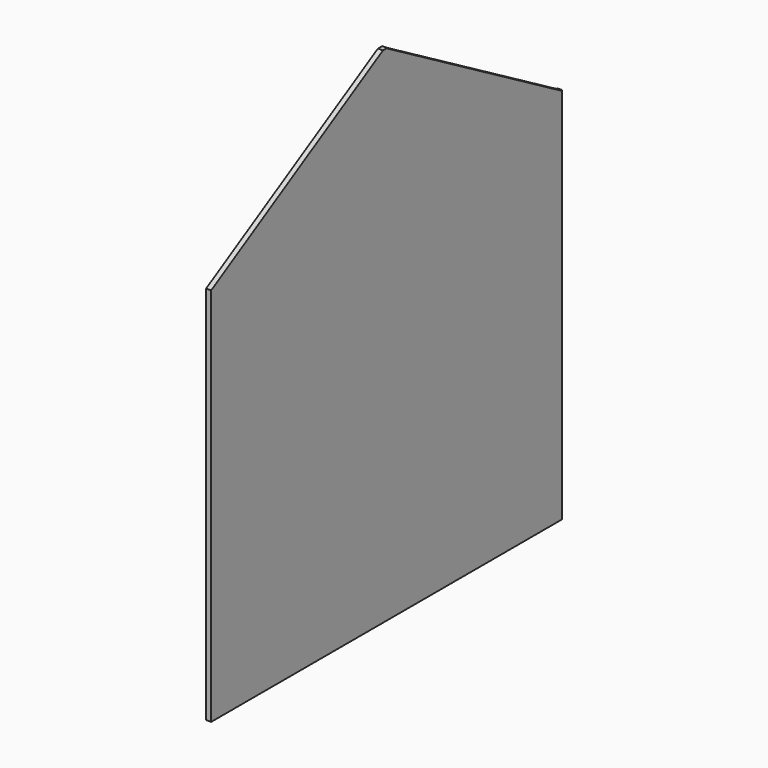
from build123d import *

# Parameters (mm, degrees)
BOX006_W               = 18
BOX006_H               = 200
BOX006_DEPTH           = 87
BOX006_PLACEMENT_ANGLE = 30
BOX005_W               = 18
BOX005_H               = 200
BOX005_DEPTH           = 87
BOX005_PLACEMENT_ANGLE = 30
BOX004_W               = 348
BOX004_H               = 4
BOX004_DEPTH           = 400


with BuildPart() as box006:
    # Box006 → Box006 (new body)
    with BuildSketch(Plane.XY):
        with Locations((9, 100)):
            Rectangle(BOX006_W, BOX006_H)
    extrude(amount=BOX006_DEPTH)


with BuildPart() as box006_1:
    # Box006 placement: moved
    add(box006.part.moved(Location((598, 174.528857, 399.719854))).rotate(Axis((598, 174.528857, 399.719854), (-1, 0, 0)), BOX006_PLACEMENT_ANGLE))


with BuildPart() as glass_cut:
    # Box005 → Box005 (new body)
    with BuildSketch(Plane.XY):
        with Locations((9, 100)):
            Rectangle(BOX005_W, BOX005_H)
    extrude(amount=BOX005_DEPTH)


with BuildPart() as glass_cut_1:
    # Box005 placement: moved
    add(glass_cut.part.moved(Location((598, -0.25833, 301.447441))).rotate(Axis((598, -0.25833, 301.447441), (1, 0, 0)), BOX005_PLACEMENT_ANGLE))


with BuildPart() as glass_sides:
    # Box004 → Box004 (new body)
    with BuildSketch(Plane(origin=(605, 0, 0), x_dir=(0, 1, 0), z_dir=(0, 0, 1))):
        with Locations((174, 2)):
            Rectangle(BOX004_W, BOX004_H)
    extrude(amount=BOX004_DEPTH)

    # Cut: cut Glass cut
    add(glass_cut_1.part, mode=Mode.SUBTRACT)

    # Cut001: cut Box006
    add(box006_1.part, mode=Mode.SUBTRACT)


solid = glass_sides.part
